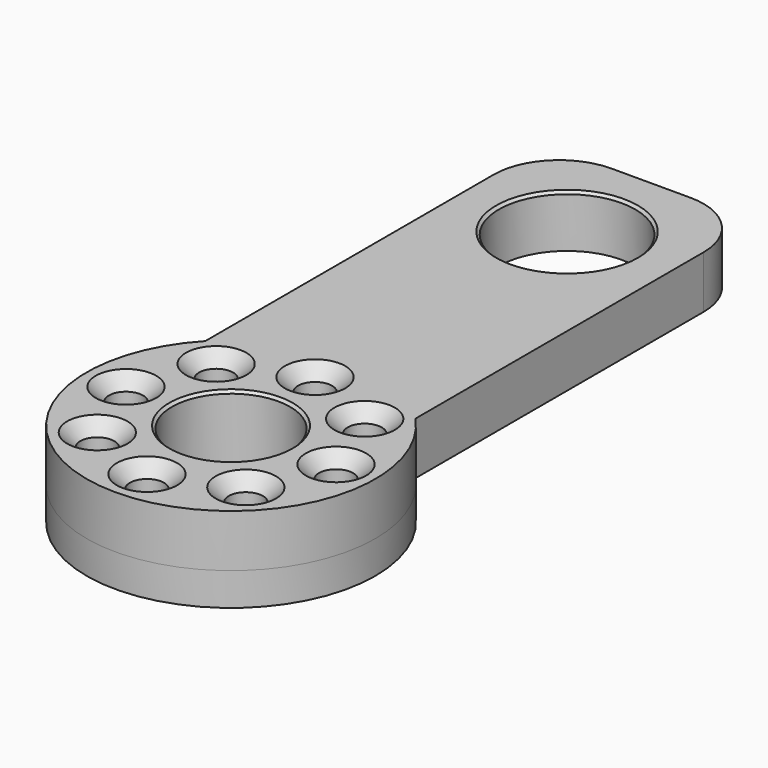
from build123d import *

# Parameters (mm, degrees)
PAD_DEPTH       = 4
SKETCH003_R     = 5.2
POCKET_DEPTH    = 5
FILLET_R        = 5
SKETCH004_R     = 11
PAD001_DEPTH    = 2.5
SKETCH002_R     = 4.5
SKETCH002_R_2   = 1.3
POCKET001_DEPTH = 10
CHAMFER_SIZE    = 1
CHAMFER001_SIZE = 0.2


with BuildPart() as part:
    # Sketch → Pad (new body)
    with BuildSketch(Plane.XY):
        with BuildLine():
            ThreePointArc((-8, 7.549834), (0, -11), (8, 7.549834))
            Line((8, 7.549834), (8, 40))
            Line((8, 40), (-8, 40))
            Line((-8, 40), (-8, 7.549834))
        make_face()
    extrude(amount=PAD_DEPTH)

    # Sketch003 → Pocket (cut)
    with BuildSketch(Plane.XY.offset(4)):
        with Locations((0, 32)):
            Circle(SKETCH003_R)
    extrude(amount=-POCKET_DEPTH, mode=Mode.SUBTRACT)

    # Fillet
    fillet_edges = [part.edges().sort_by_distance(p)[0] for p in [
        (-8, 40, 2),
        (8, 40, 2),
    ]]
    fillet(fillet_edges, radius=FILLET_R)

    # Sketch004 → Pad001 (join)
    with BuildSketch(Plane(origin=(0, 0, 0), x_dir=(1, 0, 0), z_dir=(0, 0, -1))):
        Circle(SKETCH004_R)
    extrude(amount=PAD001_DEPTH)

    # Sketch002 (on Face5 of Pad001) → Pocket001 (cut)
    with BuildSketch(Plane.XY.offset(4)):
        Circle(SKETCH002_R)
        with Locations((0, 8)):
            Circle(SKETCH002_R_2)
        with Locations((5.656854, 5.656854)):
            Circle(SKETCH002_R_2)
        with Locations((8, 0)):
            Circle(SKETCH002_R_2)
        with Locations((5.656854, -5.656854)):
            Circle(SKETCH002_R_2)
        with Locations((0, -8)):
            Circle(SKETCH002_R_2)
        with Locations((-5.656854, -5.656854)):
            Circle(SKETCH002_R_2)
        with Locations((-8, 0)):
            Circle(SKETCH002_R_2)
        with Locations((-5.656854, 5.656854)):
            Circle(SKETCH002_R_2)
    extrude(amount=-POCKET001_DEPTH, mode=Mode.SUBTRACT)

    # Chamfer
    chamfer_edges = [part.edges().sort_by_distance(p)[0] for p in [
        (-6.956854, 5.656854, 4),
        (-1.3, 8, 4),
        (4.356854, 5.656854, 4),
        (6.7, 0, 4),
        (4.356854, -5.656854, 4),
        (-1.3, -8, 4),
        (-6.956854, -5.656854, 4),
        (-9.3, 0, 4),
    ]]
    chamfer(chamfer_edges, length=CHAMFER_SIZE)

    # Chamfer001
    chamfer001_edges = [part.edges().sort_by_distance(p)[0] for p in [
        (-5.2, 32, 4),
        (-4.5, 0, 4),
    ]]
    chamfer(chamfer001_edges, length=CHAMFER001_SIZE)


solid = part.part
